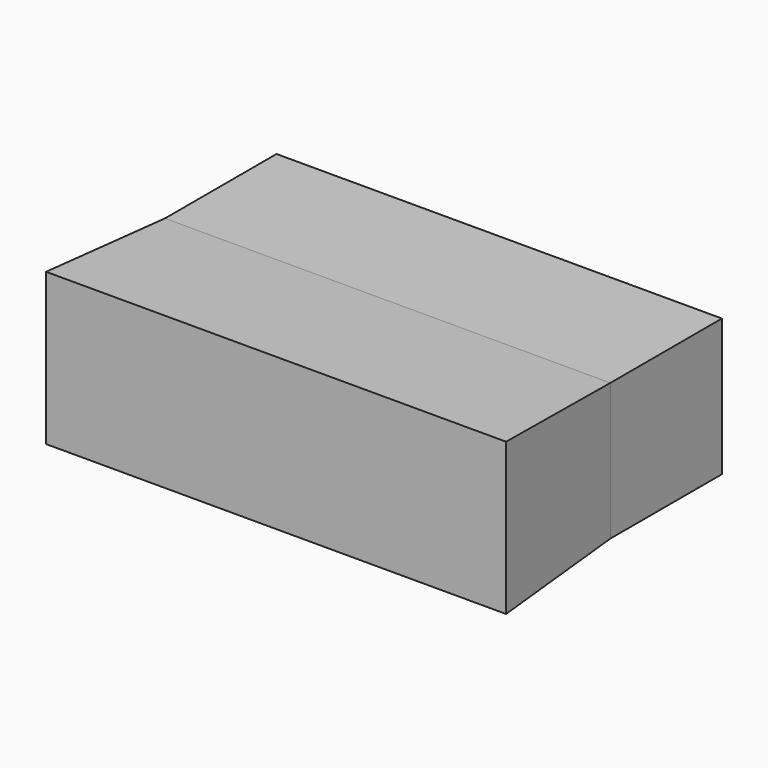
from build123d import *

# Parameters (mm, degrees)
F0_W      = 81.1160616577
F0_H      = 24.9637458473
F1_DEPTH  = 25.4
F1_FACE_W = 81.1160616577
F1_FACE_H = 24.9637458473
F2_DEPTH  = 25.4
F2_TAPER  = -3.0006


with BuildPart() as f1:
    # F0 (on Front) → F1 (new body)
    with BuildSketch(Plane.XZ):
        with Locations((8.6910072714, 34.6656208858)):
            Rectangle(F0_W, F0_H)
    extrude(amount=F1_DEPTH)

    # F1_face (on face) → F2 (join)
    with BuildSketch(Plane(origin=(8.6910072714, -25.4, 34.6656208858), x_dir=(1, 0, 0), z_dir=(0, -1, 0))):
        Rectangle(F1_FACE_W, F1_FACE_H)
    extrude(amount=F2_DEPTH, taper=F2_TAPER)


solid = f1.part
